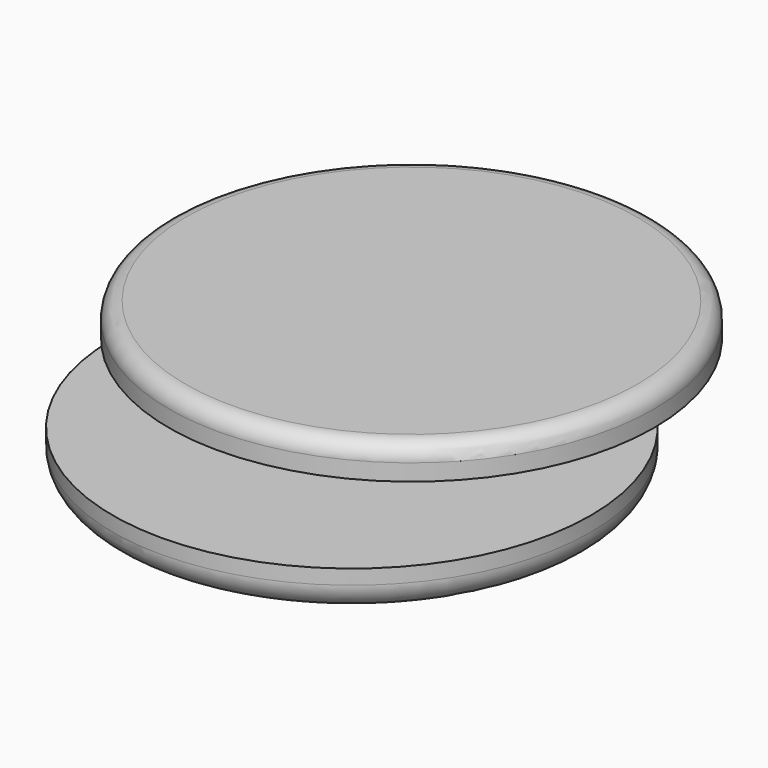
from build123d import *

# Parameters (mm, degrees)
F0_R      = 165
F1_DEPTH  = 22.5
F2_R      = 11.25
F3_R      = 115
F4_DEPTH  = 2.81
F7_R      = 10
F8_DEPTH  = 12
F9_R      = 3.6
F10_DEPTH = 25.4
F11_R     = 3.6
F12_DEPTH = 12.4714


with BuildPart() as f1:
    # F0 (on Top) → F1 (new body)
    with BuildSketch(Plane.XY):
        with Locations((0, 50.714411)):
            Circle(F0_R)
    extrude(amount=F1_DEPTH)

    # F2
    f2_edges = [f1.edges().sort_by_distance(p)[0] for p in [
        (-165, 50.714411, 22.5),
    ]]
    fillet(f2_edges, radius=F2_R)

    # F3 (on face) → F4 (join)
    with BuildSketch(Plane(origin=(0, 0, 0), x_dir=(1, 0, 0), z_dir=(0, 0, -1))):
        with Locations((0, -50.714411)):
            Circle(F3_R)
    extrude(amount=F4_DEPTH)

    # F11 (on face) → F12 (join)
    with BuildSketch(Plane(origin=(0, 0, -2.81), x_dir=(1, 0, 0), z_dir=(0, 0, -1))):
        with Locations((0, -50.714411)):
            Circle(F11_R)
    extrude(amount=F12_DEPTH)


with BuildPart() as f6:
    # F5 (on Front) → F6 (revolve)
    with BuildSketch(Plane.XZ):
        with BuildLine():
            Line((162.5, -32.707262), (0, -32.707262))
            Line((0, -32.707262), (0, -59.707262))
            Line((0, -59.707262), (150, -59.707262))
            ThreePointArc((150, -59.707262), (159.038645, -53.257736), (162.5, -42.707262))
            Line((162.5, -42.707262), (162.5, -32.707262))
        make_face()
    revolve(axis=Axis((0, 0, -46.207262), (0, 0, -1)))

    # F7 (on face) → F8 (cut)
    with BuildSketch(Plane(origin=(0, 0, -59.707262), x_dir=(1, 0, 0), z_dir=(0, 0, -1))):
        Circle(F7_R)
    extrude(amount=-F8_DEPTH, mode=Mode.SUBTRACT)

    # F9 (on face) → F10 (cut)
    with BuildSketch(Plane(origin=(0, 0, -47.707262), x_dir=(1, 0, 0), z_dir=(0, 0, -1))):
        Circle(F9_R)
    extrude(amount=-F10_DEPTH, mode=Mode.SUBTRACT)


solid = Compound([f1.part, f6.part])
